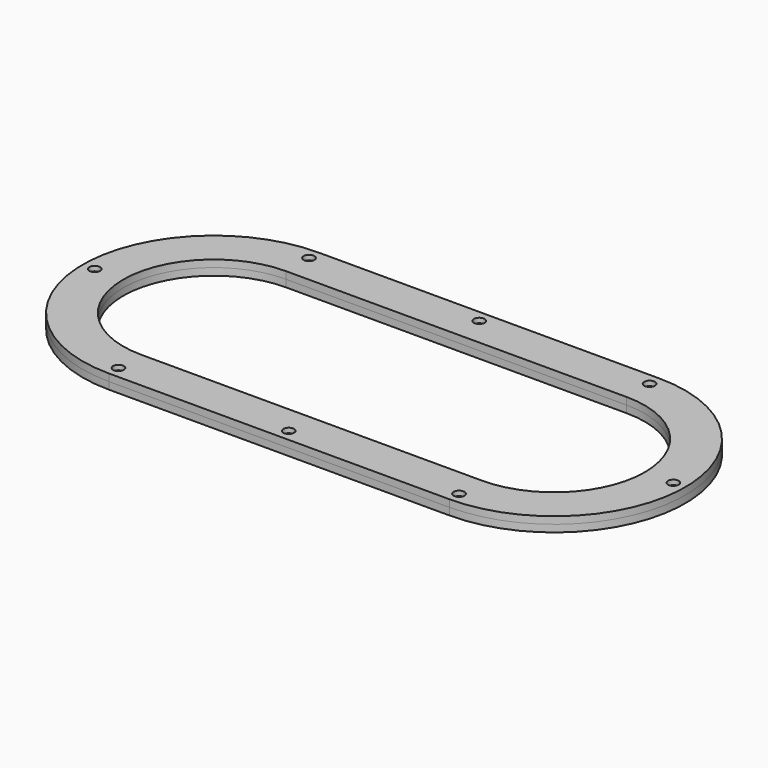
from build123d import *

# Parameters (mm, degrees)
PAD_DEPTH        = 3
HOLE_D           = 4
HOLE_DEPTH       = 25
HOLE_CSINK_D     = 7
HOLE_CSINK_ANGLE = 90
PAD001_DEPTH     = 6
CHAMFER_SIZE     = 3
POCKET_DEPTH     = 4
SKETCH004_R      = 2.25
HOLE001_DEPTH    = 25


with BuildPart() as body:
    # Sketch → Pad (new body)
    with BuildSketch(Plane.XY):
        with BuildLine():
            ThreePointArc((-71.5, 55), (-126.5, 0), (-71.5, -55))
            Line((-71.5, -55), (71.5, -55))
            ThreePointArc((71.5, -55), (126.5, 0), (71.5, 55))
            Line((71.5, 55), (-71.5, 55))
        make_face()
        with BuildLine():
            ThreePointArc((-71.5, 38), (-109.5, 0), (-71.5, -38))
            Line((-71.5, -38), (71.5, -38))
            ThreePointArc((71.5, -38), (109.5, 0), (71.5, 38))
            Line((71.5, 38), (-71.5, 38))
        make_face(mode=Mode.SUBTRACT)
    extrude(amount=PAD_DEPTH)

    # Hole
    with Locations(Plane(origin=(0, 0, 0), x_dir=(1, 0, 0), z_dir=(0, 0, -1))):
        with Locations((-71.5, -50), (-121.5, 0), (-71.5, 50), (71.5, 50), (121.5, 0), (71.5, -50), (0, -50), (0, 50)):
            CounterSinkHole(HOLE_D / 2, HOLE_CSINK_D / 2, depth=HOLE_DEPTH, counter_sink_angle=HOLE_CSINK_ANGLE)


with BuildPart() as bodyoutside:
    # Sketch002 → Pad001 (new body)
    with BuildSketch(Plane.XY):
        with BuildLine():
            ThreePointArc((-71.5, 55), (-126.5, 0), (-71.5, -55))
            Line((-71.5, -55), (71.5, -55))
            ThreePointArc((71.5, -55), (126.5, 0), (71.5, 55))
            Line((71.5, 55), (-71.5, 55))
        make_face()
        with BuildLine():
            ThreePointArc((-71.5, 38), (-109.5, 0), (-71.5, -38))
            Line((-71.5, -38), (71.5, -38))
            ThreePointArc((71.5, -38), (109.5, 0), (71.5, 38))
            Line((71.5, 38), (-71.5, 38))
        make_face(mode=Mode.SUBTRACT)
    extrude(amount=PAD001_DEPTH)

    # Chamfer
    chamfer_edges = [bodyoutside.edges().sort_by_distance(p)[0] for p in [
        (0, -55, 0),
        (126.5, 0, 0),
        (0, 55, 0),
        (-126.5, 0, 0),
        (0, -38, 0),
        (-109.5, 0, 0),
        (0, 38, 0),
        (109.5, 0, 0),
    ]]
    chamfer(chamfer_edges, length=CHAMFER_SIZE)

    # Sketch003 → Pocket (cut)
    with BuildSketch(Plane.XY):
        Polygon((-118.151368, 0), (-119.825684, 2.9), (-123.174316, 2.9), (-124.848632, 0), (-123.174316, -2.9), (-119.825684, -2.9), align=None)
        Polygon((-69.825684, -52.9), (-68.151368, -50), (-69.825684, -47.1), (-73.174316, -47.1), (-74.848632, -50), (-73.174316, -52.9), align=None)
        Polygon((-69.825684, 47.1), (-68.151368, 50), (-69.825684, 52.9), (-73.174316, 52.9), (-74.848632, 50), (-73.174316, 47.1), align=None)
        Polygon((1.674316, 47.1), (3.348632, 50), (1.674316, 52.9), (-1.674316, 52.9), (-3.348632, 50), (-1.674316, 47.1), align=None)
        Polygon((73.174316, 47.1), (74.848632, 50), (73.174316, 52.9), (69.825684, 52.9), (68.151368, 50), (69.825684, 47.1), align=None)
        Polygon((123.174316, -2.9), (124.848632, 0), (123.174316, 2.9), (119.825684, 2.9), (118.151368, 0), (119.825684, -2.9), align=None)
        Polygon((73.174316, -52.9), (74.848632, -50), (73.174316, -47.1), (69.825684, -47.1), (68.151368, -50), (69.825684, -52.9), align=None)
        Polygon((3.348632, -50), (1.674316, -47.1), (-1.674316, -47.1), (-3.348632, -50), (-1.674316, -52.9), (1.674316, -52.9), align=None)
    extrude(amount=POCKET_DEPTH, mode=Mode.SUBTRACT)

    # Sketch004 → Hole001 (cut)
    with BuildSketch(Plane.XY):
        with Locations((-71.5, 50)):
            Circle(SKETCH004_R)
        with Locations((-121.5, 0)):
            Circle(SKETCH004_R)
        with Locations((-71.5, -50)):
            Circle(SKETCH004_R)
        with Locations((71.5, -50)):
            Circle(SKETCH004_R)
        with Locations((121.5, 0)):
            Circle(SKETCH004_R)
        with Locations((71.5, 50)):
            Circle(SKETCH004_R)
        with Locations((0, 50)):
            Circle(SKETCH004_R)
        with Locations((0, -50)):
            Circle(SKETCH004_R)
    extrude(amount=HOLE001_DEPTH, mode=Mode.SUBTRACT)


solid = Compound([body.part, bodyoutside.part])
